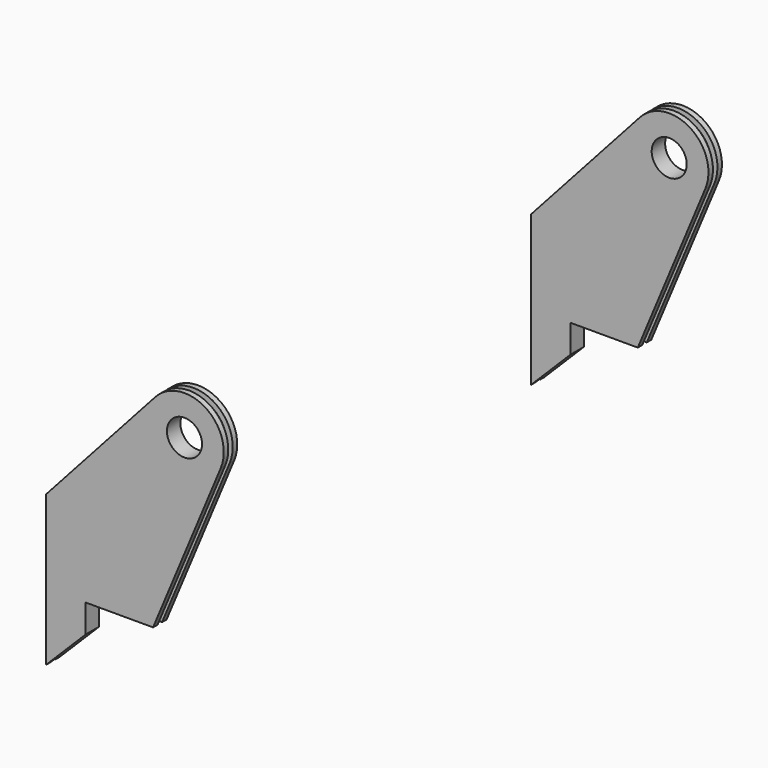
from build123d import *

# Parameters (mm, degrees)
SKETCH_R            = 19.84375
PAD_DEPTH           = 6.35
SKETCH001_R         = 19.84375
PAD001_DEPTH        = 6.35
LINEARPATTERN_COUNT = 2
LINEARPATTERN_PITCH = 12.7
ARRAY_Y_COUNT       = 2
ARRAY_Y_PITCH       = 685.8


with BuildPart() as part:
    # Sketch → Pad (new body)
    with BuildSketch(Plane.XZ):
        with BuildLine():
            Line((-76.2, -31.75), (-76.2, 0))
            Line((-76.2, 0), (0, 0))
            Line((0, 0), (76.582367, 183.543694))
            ThreePointArc((76.582367, 183.543694), (59.339484, 238.214475), (2.545883, 230.423578))
            Line((2.545883, 230.423578), (-121.101281, 93.272662))
            Line((-121.101281, -76.651281), (-121.101281, 93.272662))
            Line((-121.101281, -76.651281), (-76.2, -31.75))
        make_face()
        with Locations((35.56, 200.66)):
            Circle(SKETCH_R, mode=Mode.SUBTRACT)
    pad = extrude(amount=PAD_DEPTH)

    # Sketch001 (on DatumPlane) → Pad001 (join)
    with BuildSketch(Plane.XZ.offset(6.35)):
        with BuildLine():
            Line((-76.2, -31.75), (-76.2, 0))
            Line((-76.2, 0), (-6.35, 0))
            Line((-6.35, 0), (70.7576, 186.074425))
            ThreePointArc((70.7576, 186.074425), (55.903264, 232.874308), (7.262185, 226.171638))
            Line((7.262185, 226.171638), (-116.611153, 88.769847))
            Line((-116.611153, -72.161153), (-116.611153, 88.769847))
            Line((-116.611153, -72.161153), (-76.2, -31.75))
        make_face()
        with Locations((35.56, 200.66)):
            Circle(SKETCH001_R, mode=Mode.SUBTRACT)
    extrude(amount=PAD001_DEPTH)

    # LinearPattern: Pad ×2
    with Locations(*[(0, -i * LINEARPATTERN_PITCH, 0) for i in range(1, LINEARPATTERN_COUNT)]):
        add(pad)

    # Array Y: part ×2


with BuildPart() as part_1:
    add(part.part)
    with Locations(*[(0, i * ARRAY_Y_PITCH, 0) for i in range(1, ARRAY_Y_COUNT)]):
        add(part.part)


solid = part_1.part
